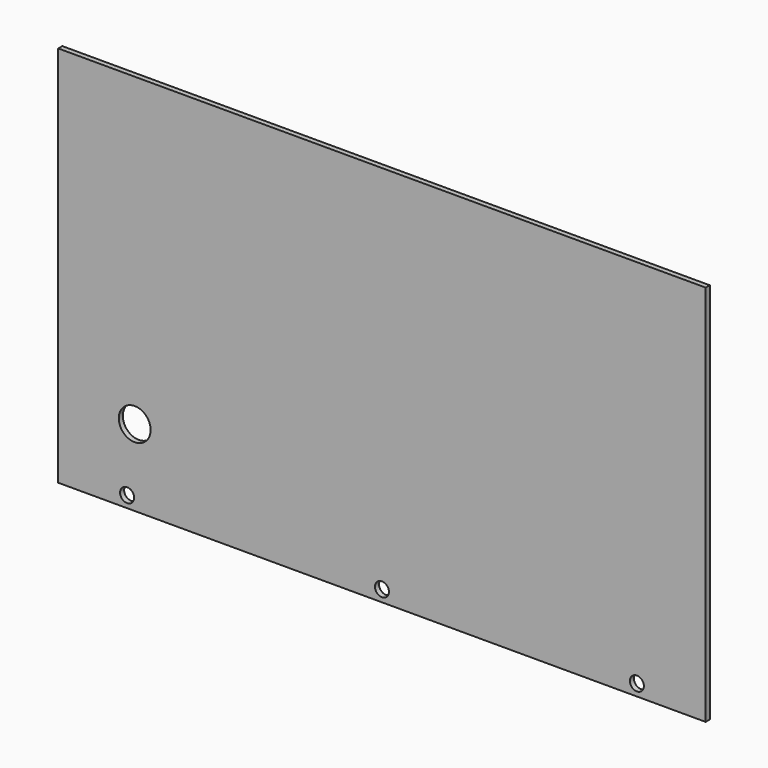
from build123d import *

# Parameters (mm, degrees)
F0_W     = 254
F0_H     = 150
F1_DEPTH = 2
F2_R     = 6.25
F3_DEPTH = 25
F5_D     = 5.5
F5_DEPTH = 13
F5_TIP   = 1.6523667023


with BuildPart() as f1:
    # F0 (on Front) → F1 (new body)
    with BuildSketch(Plane.XZ):
        Rectangle(F0_W, F0_H)
    extrude(amount=F1_DEPTH)

    # F2 (on face) → F3 (cut)
    with BuildSketch(Plane.XZ.offset(2)):
        with Locations((-97, -45)):
            Circle(F2_R)
    extrude(amount=-F3_DEPTH, mode=Mode.SUBTRACT)

    # F5
    with Locations(Plane.XZ.offset(2)):
        with Locations((-100, -70.5), (0, -70.5), (100, -70.5)):
            Hole(F5_D / 2, depth=F5_DEPTH)
            with Locations((0, 0, -(F5_DEPTH + F5_TIP / 2))):  # 118° drill point
                Cone(0, F5_D / 2, F5_TIP, mode=Mode.SUBTRACT)


solid = f1.part
